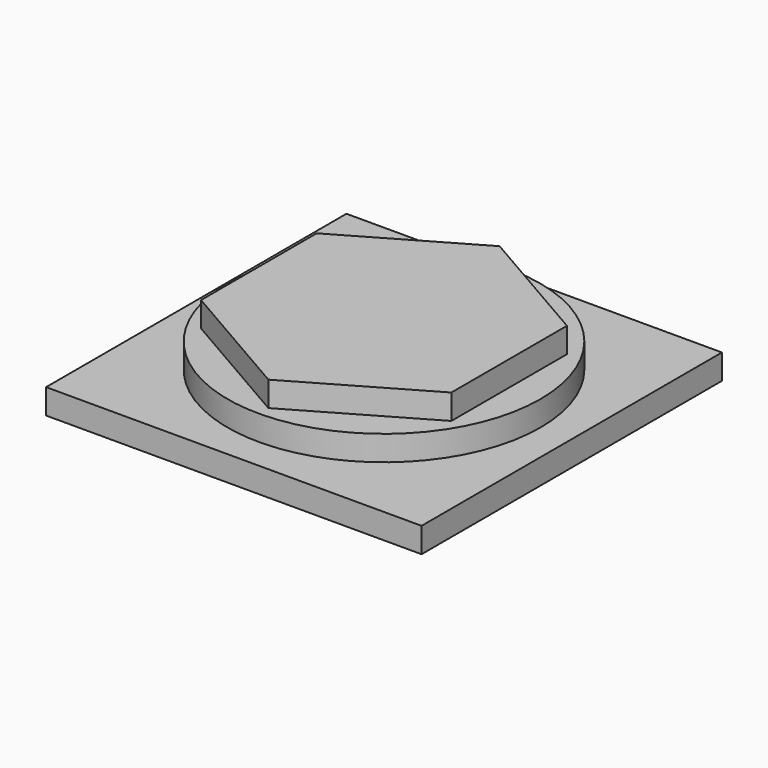
from build123d import *

# Parameters (mm, degrees)
F0_W     = 30
F0_H     = 30
F1_DEPTH = 2
F2_R     = 12.5
F3_DEPTH = 2
F5_DEPTH = 2


with BuildPart() as f1:
    # F0 (on Top) → F1 (new body)
    with BuildSketch(Plane.XY):
        Rectangle(F0_W, F0_H)
    extrude(amount=F1_DEPTH)

    # F2 (on face) → F3 (join)
    with BuildSketch(Plane.XY.offset(2)):
        Circle(F2_R)
    extrude(amount=F3_DEPTH)

    # F4 (on face) → F5 (join)
    with BuildSketch(Plane.XY.offset(4)):
        Polygon((0, 11.547005), (-10, 5.773503), (-10, -5.773503), (0, -11.547005), (10, -5.773503), (10, 5.773503), align=None)
    extrude(amount=F5_DEPTH)


solid = f1.part
